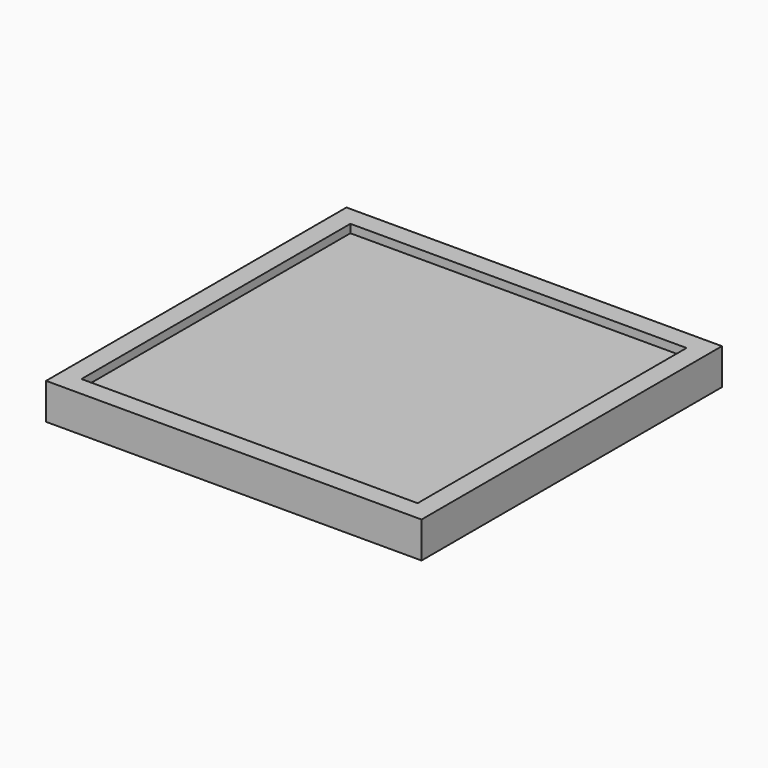
from build123d import *

# Parameters (mm, degrees)
F0_W     = 60.5
F0_H     = 60.5
F1_DEPTH = 5
F2_DEPTH = 6.5


with BuildPart() as f1:
    # F0 (on Top) → F1 (new body)
    with BuildSketch(Plane.XY):
        Polygon((3.5355339059, -12.5), (3.5355339059, 12.5), (3.5355339059, 33.7855339059), (-64.0355339059, 33.7855339059), (-64.0355339059, -33.7855339059), (3.5355339059, -33.7855339059), align=None)
        with Locations((-30.25, 0)):
            Rectangle(F0_W, F0_H, mode=Mode.SUBTRACT)
        with Locations((-30.25, 0)):
            Rectangle(F0_W, F0_H)
    extrude(amount=F1_DEPTH)

    # F0 (on Top) → F2 (join)
    with BuildSketch(Plane.XY):
        Polygon((3.5355339059, -12.5), (3.5355339059, 12.5), (3.5355339059, 33.7855339059), (-64.0355339059, 33.7855339059), (-64.0355339059, -33.7855339059), (3.5355339059, -33.7855339059), align=None)
        with Locations((-30.25, 0)):
            Rectangle(F0_W, F0_H, mode=Mode.SUBTRACT)
    extrude(amount=F2_DEPTH)


solid = f1.part
